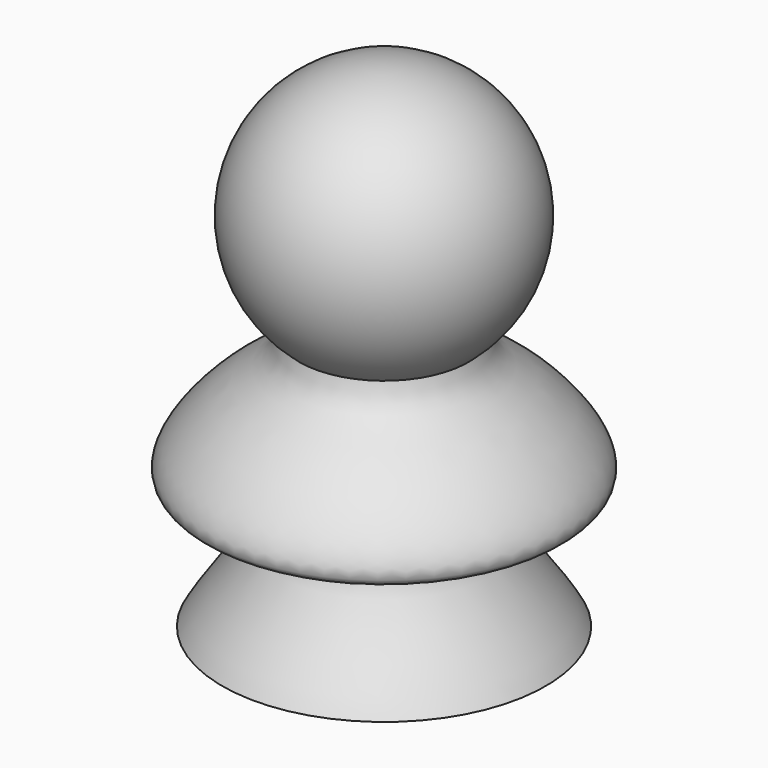
from build123d import *


with BuildPart() as f2:
    # F0 (on Front) → F2 (revolve)
    with BuildSketch(Plane.XZ):
        with BuildLine():
            Line((0, 9.6530151585), (0, 28.3308600206))
            ThreePointArc((0, 28.3308600206), (-4.7008260459, 25.0344545985), (-3.2033207053, 19.4917538149))
            add(Edge.make_bspline(
                [(-3.2033207053, 19.4917538149), (-3.3398245082, 18.4556584373), (-4.8901677955, 17.9862345942), (-8.3590320005, 13.8617155693), (-2.3361952478, 14.4802734736), (-5.1145738784, 11.3007533475), (-5.9768163645, 9.8979837727), (-6.11601, 9.6530151585)],
                knots=[0, 0, 0, 0, 0.1028329403, 0.2192244746, 0.3264716242, 0.4478125789, 0.4748890417, 0.4748890417, 0.4748890417, 0.4748890417], degree=3))
            Line((-6.11601, 9.6530151585), (0, 9.6530151585))
        make_face()
    revolve(axis=Axis((0, 0, 24.1754837334), (0, 0, 1)))


solid = f2.part
